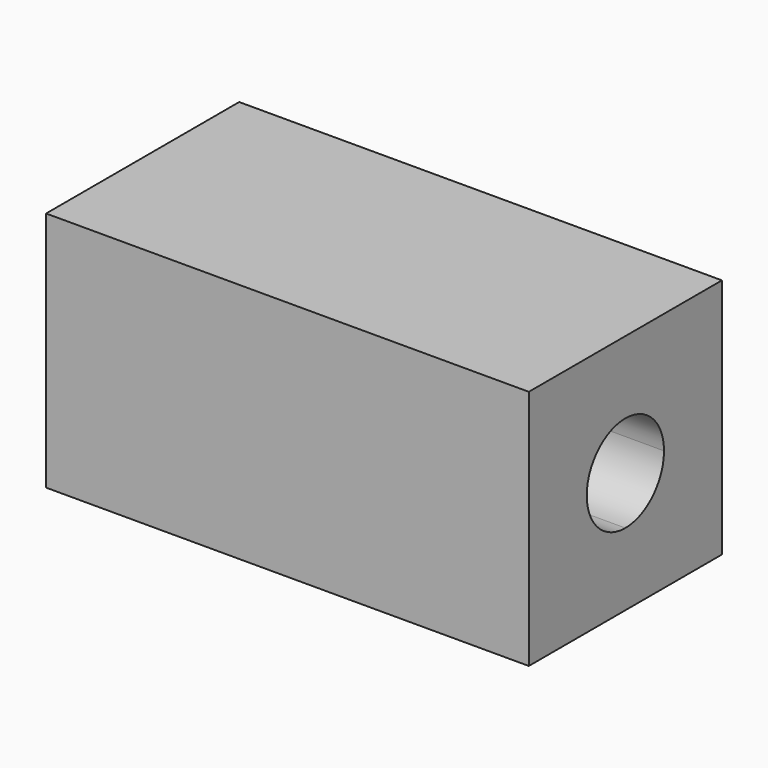
from build123d import *

# Parameters (mm, degrees)
F1_DEPTH = 25.4


with BuildPart() as f1:
    # F0 (on Right) → F1 (new body)
    with BuildSketch(Plane.YZ):
        with BuildLine():
            Line((0, -6.35), (0, 0))
            Line((0, 0), (-6.35, 0))
            Line((-6.35, 0), (-6.35, -3.81))
            ThreePointArc((-6.35, -3.81), (-4.553949, -4.553949), (-3.81, -6.35))
            Line((-3.81, -6.35), (0, -6.35))
        make_face()
        with BuildLine():
            Line((-6.35, -3.81), (-6.35, 0))
            Line((-6.35, 0), (-12.7, 0))
            Line((-12.7, 0), (-12.7, -6.35))
            Line((-12.7, -6.35), (-8.89, -6.35))
            ThreePointArc((-8.89, -6.35), (-8.146051, -4.553949), (-6.35, -3.81))
        make_face()
        with BuildLine():
            Line((-8.89, -6.35), (-12.7, -6.35))
            Line((-12.7, -6.35), (-12.7, -12.7))
            Line((-12.7, -12.7), (-6.35, -12.7))
            Line((-6.35, -12.7), (-6.35, -8.89))
            ThreePointArc((-6.35, -8.89), (-8.146051, -8.146051), (-8.89, -6.35))
        make_face()
        with BuildLine():
            Line((0, -12.7), (0, -6.35))
            Line((0, -6.35), (-3.81, -6.35))
            ThreePointArc((-3.81, -6.35), (-4.553949, -8.146051), (-6.35, -8.89))
            Line((-6.35, -8.89), (-6.35, -12.7))
            Line((-6.35, -12.7), (0, -12.7))
        make_face()
    extrude(amount=F1_DEPTH)


solid = f1.part
